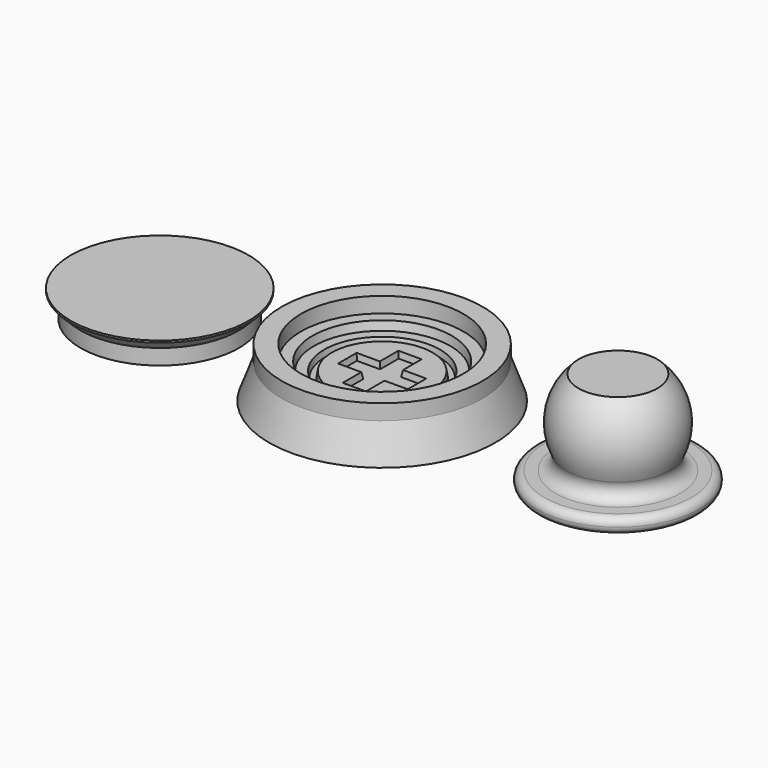
from build123d import *

# Parameters (mm, degrees)
F2_R     = 9
F3_DEPTH = 1.1
F3_TAPER = 10
F4_R     = 7.5
F4_R_2   = 6.5
F5_DEPTH = 0.8
F5_TAPER = 10
F6_W     = 2.5
F6_H     = 2


with BuildPart() as f1:
    # F0 (on Front) → F1 (revolve)
    with BuildSketch(Plane.XZ):
        Polygon((0, 1), (-13, 1), (-14.6378660542, -3.5), (0, -3.5), align=None)
    revolve(axis=Axis((0, 0, -0.3590679262), (0, 0, -1)))

    # F2 (on face) → F3 (cut)
    with BuildSketch(Plane.XY.offset(1)):
        Circle(F2_R)
    extrude(amount=-F3_DEPTH, taper=F3_TAPER, mode=Mode.SUBTRACT)

    # F4 (on face) → F5 (cut)
    with BuildSketch(Plane.XY.offset(-0.1)):
        Circle(F4_R)
        Circle(F4_R_2, mode=Mode.SUBTRACT)
        Polygon((1.5, 4.5), (-1.5, 4.5), (-1.5, 1.5), (-4.5, 1.5), (-4.5, -1.5), (-1.5, -1.5), (-1.5, -4.5), (1.5, -4.5), (1.5, -1.5), (4.5, -1.5), (4.5, 1.5), (1.5, 1.5), align=None)
    extrude(amount=-F5_DEPTH, taper=F5_TAPER, mode=Mode.SUBTRACT)

    # F6 (on Front) → F7 (revolve)
    with BuildSketch(Plane.XZ):
        with Locations((-11.75, 2)):
            Rectangle(F6_W, F6_H)
    revolve(axis=Axis((0, 0, 1.6734934973), (0, 0, -1)))


with BuildPart() as f9:
    # F8 (on Front) → F9 (revolve)
    with BuildSketch(Plane.XZ):
        Polygon((-39.0169236064, -1.5), (-39.0169236064, -3.5), (-28.7669236064, -3.5), (-28.7669236064, -1.3), (-28.7669236064, 0), (-40.2669236064, 0), (-40.2669236064, -0.25), align=None)
    revolve(axis=Axis((-28.7669236064, 0, -1.8594449877), (0, 0, 1)))


with BuildPart() as f11:
    # F10 (on Front) → F11 (revolve)
    with BuildSketch(Plane.XZ):
        with BuildLine():
            Line((22.4323707258, -1.5), (20.9946284741, -1.5))
            ThreePointArc((20.9946284741, -1.5), (20.2875216929, -1.7928932188), (19.9946284741, -2.5))
            ThreePointArc((19.9946284741, -2.5), (20.2875216929, -3.2071067812), (20.9946284741, -3.5))
            Line((20.9946284741, -3.5), (30.4946284741, -3.5))
            Line((30.4946284741, -3.5), (30.4946284741, 9.5))
            Line((30.4946284741, 9.5), (25.3956089605, 9.5))
            ThreePointArc((25.3956089605, 9.5), (23.1175917615, 5.3525270203), (23.7760803505, 0.6666666667))
            ThreePointArc((23.7760803505, 0.6666666667), (23.7071256042, -0.790569415), (22.4323707258, -1.5))
        make_face()
    revolve(axis=Axis((30.4946284741, 0, -6.7232011352), (0, 0, 1)))


solid = Compound([f1.part, f9.part, f11.part])
